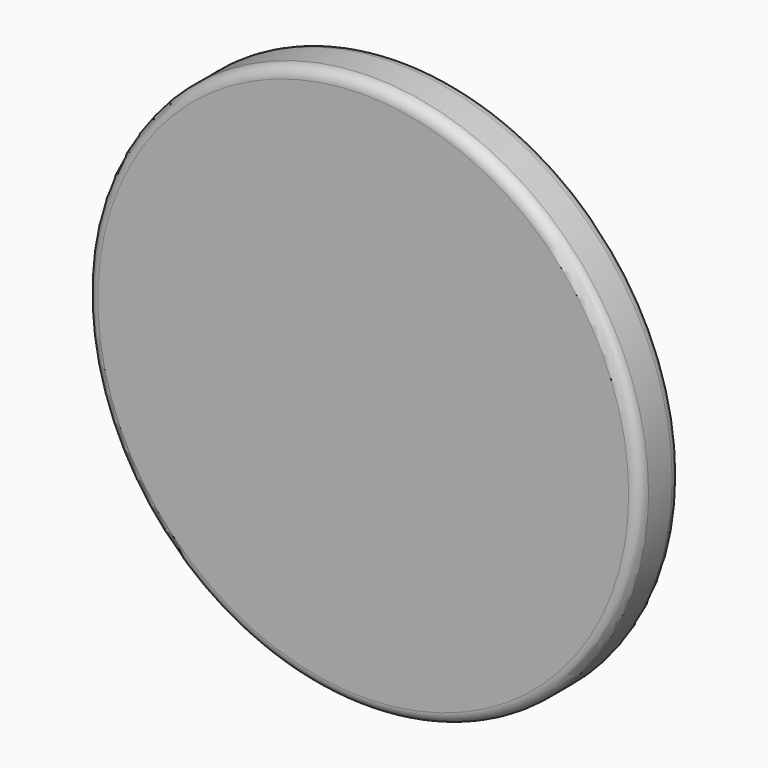
from build123d import *

# Parameters (mm, degrees)
F0_R     = 100
F1_DEPTH = 18.63153
F2_R     = 4
F3_R     = 5
F4_DEPTH = 15


with BuildPart() as f1:
    # F0 (on Front) → F1 (new body)
    with BuildSketch(Plane.XZ):
        with Locations((-44.569857, 36.709767)):
            Circle(F0_R)
    extrude(amount=F1_DEPTH)

    # F2
    f2_edges = [f1.edges().sort_by_distance(p)[0] for p in [
        (-144.569857, -18.63153, 36.709767),
        (-144.569857, 0, 36.709767),
    ]]
    fillet(f2_edges, radius=F2_R)

    # F3 (on face) → F4 (join)
    with BuildSketch(Plane(origin=(0, 0, 0), x_dir=(-1, 0, 0), z_dir=(0, 1, 0))):
        with Locations((44.569857, 36.709767)):
            Circle(F3_R)
    extrude(amount=F4_DEPTH)


solid = f1.part
